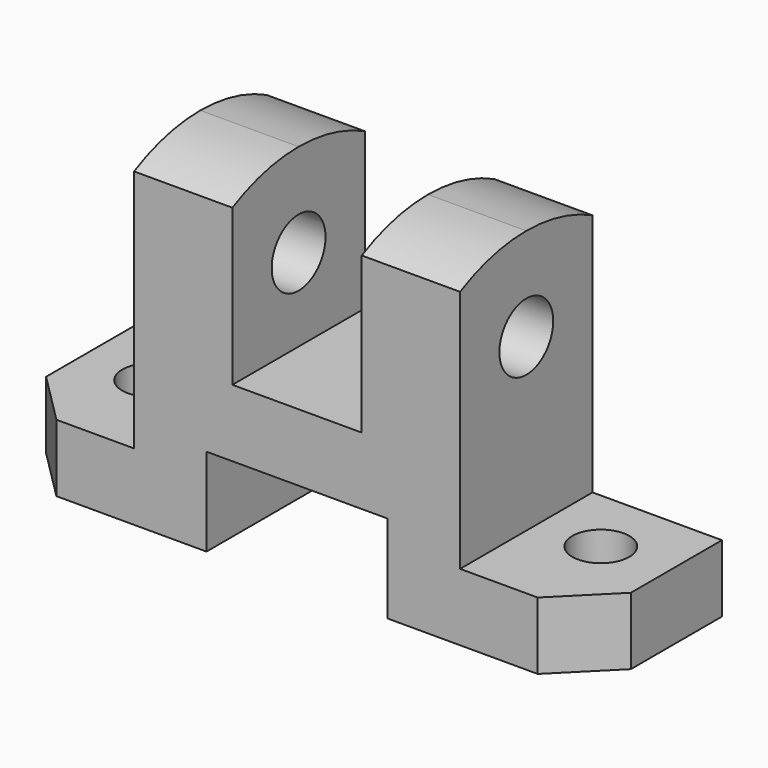
from build123d import *

# Parameters (mm, degrees)
F1_DEPTH = 32
F2_R     = 5.5
F3_DEPTH = 13.001
F4_R     = 6.5
F5_DEPTH = 88.001
F7_DEPTH = 88.001


with BuildPart() as f1:
    # F0 (on Front) → F1 (new body)
    with BuildSketch(Plane.XZ):
        Polygon((-17.5, 17), (0, 17), (17.5, 17), (17.5, 0), (56.5, 0), (56.5, 13), (31.5, 13), (31.5, 64), (12.5, 64), (12.5, 30), (0, 30), (-12.5, 30), (-12.5, 64), (-31.5, 64), (-31.5, 13), (-56.5, 13), (-56.5, 0), (-17.5, 0), align=None)
    extrude(amount=F1_DEPTH)

    # F2 (on face) → F3 (cut, through all)
    with BuildSketch(Plane.XY.offset(13)):
        with Locations((-43.5, -13)):
            Circle(F2_R)
        Polygon((-46.5, -32), (-56.5, -22), (-56.5, -32), align=None)
        Polygon((56.5, -22), (46.5, -32), (56.5, -32), align=None)
        with Locations((43.5, -13)):
            Circle(F2_R)
    extrude(amount=-F3_DEPTH, mode=Mode.SUBTRACT)

    # F4 (on face) → F5 (cut, through all)
    with BuildSketch(Plane.YZ.offset(31.5)):
        with Locations((-16, 46)):
            Circle(F4_R)
    extrude(amount=-F5_DEPTH, mode=Mode.SUBTRACT)

    # F6 (on face) → F7 (cut, through all)
    with BuildSketch(Plane.YZ.offset(31.5)):
        with BuildLine():
            ThreePointArc((-32, 60.128765), (-24.230833, 63.018427), (-16, 64))
            Line((-16, 64), (-32, 64))
            Line((-32, 64), (-32, 60.128765))
        make_face()
        with BuildLine():
            ThreePointArc((-16, 64), (-7.769167, 63.018427), (0, 60.128765))
            Line((0, 60.128765), (0, 64))
            Line((0, 64), (-16, 64))
        make_face()
    extrude(amount=-F7_DEPTH, mode=Mode.SUBTRACT)


solid = f1.part
